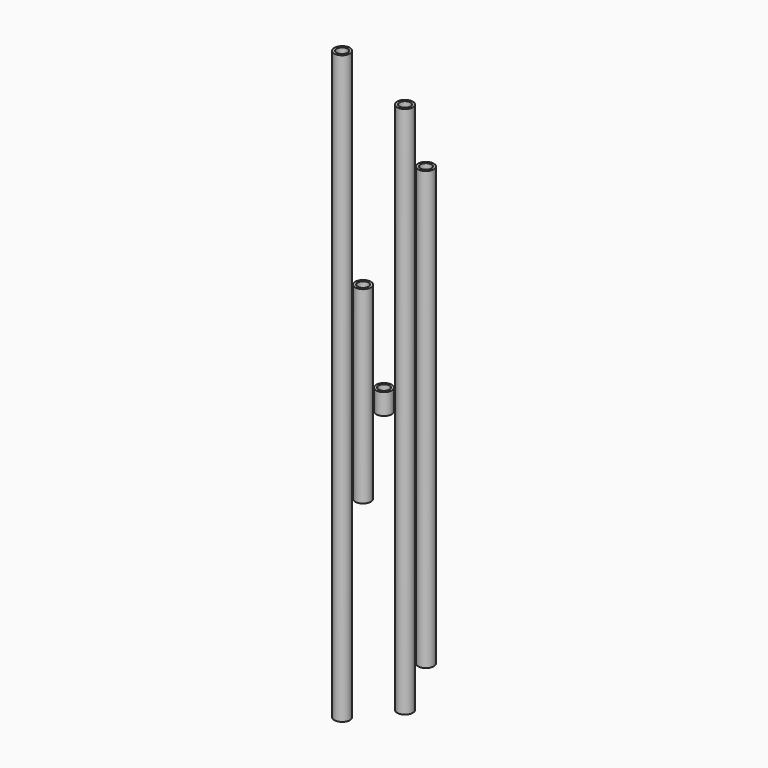
from build123d import *

# Parameters (mm, degrees)
F0_R     = 9.525
F0_R_2   = 6.6548
F1_DEPTH = 355.6
F2_R     = 9.525
F2_R_2   = 6.6548
F3_DEPTH = 114.3
F4_R     = 9.525
F4_R_2   = 6.6548
F5_DEPTH = 12.7
F6_R     = 9.525
F6_R_2   = 6.6548
F7_DEPTH = 323.04736
F8_R     = 9.525
F8_R_2   = 6.6548
F9_DEPTH = 265.14552


with BuildPart() as f1:
    # F0 (on Top) → F1 (new body, symmetric)
    with BuildSketch(Plane.XY):
        Circle(F0_R)
        Circle(F0_R_2, mode=Mode.SUBTRACT)
    extrude(amount=F1_DEPTH, both=True)


with BuildPart() as f3:
    # F2 (on Top) → F3 (new body, symmetric)
    with BuildSketch(Plane.XY):
        with Locations((25.4, 0)):
            Circle(F2_R)
        with Locations((25.4, 0)):
            Circle(F2_R_2, mode=Mode.SUBTRACT)
    extrude(amount=F3_DEPTH, both=True)


with BuildPart() as f5:
    # F4 (on Top) → F5 (new body, symmetric)
    with BuildSketch(Plane.XY):
        with Locations((50.8, 0)):
            Circle(F4_R)
        with Locations((50.8, 0)):
            Circle(F4_R_2, mode=Mode.SUBTRACT)
    extrude(amount=F5_DEPTH, both=True)


with BuildPart() as f7:
    # F6 (on Top) → F7 (new body, symmetric)
    with BuildSketch(Plane.XY):
        with Locations((76.2, 0)):
            Circle(F6_R)
        with Locations((76.2, 0)):
            Circle(F6_R_2, mode=Mode.SUBTRACT)
    extrude(amount=F7_DEPTH, both=True)


with BuildPart() as f9:
    # F8 (on Top) → F9 (new body, symmetric)
    with BuildSketch(Plane.XY):
        with Locations((101.6, 0)):
            Circle(F8_R)
        with Locations((101.6, 0)):
            Circle(F8_R_2, mode=Mode.SUBTRACT)
    extrude(amount=F9_DEPTH, both=True)


solid = Compound([f1.part, f3.part, f5.part, f7.part, f9.part])
